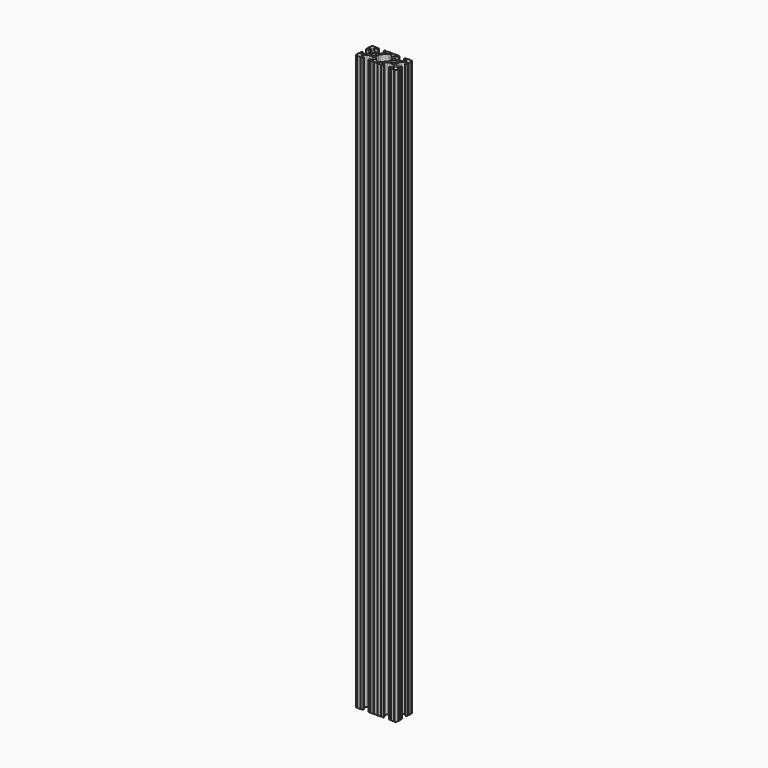
from build123d import *

# Parameters (mm, degrees)
SKETCH162_R   = 2.6035
EXTRUDE_DEPTH = 711.2


with BuildPart() as part:
    # Sketch162 → Extrude (new body)
    with BuildSketch(Plane.XY):
        with BuildLine():
            Line((8.41248, -10.4902), (6.283641, -10.4902))
            ThreePointArc((5.532577, -8.666072), (5.297292, -9.829633), (6.283641, -10.4902))
            Line((5.532577, -8.666072), (8.809985, -5.416263))
            ThreePointArc((11.045536, -4.4958), (9.836721, -4.73492), (8.809985, -5.416263))
            Line((11.045536, -4.4958), (14.354464, -4.4958))
            ThreePointArc((16.590015, -5.416263), (15.563279, -4.73492), (14.354464, -4.4958))
            Line((16.590015, -5.416263), (19.867423, -8.666072))
            ThreePointArc((19.116359, -10.4902), (20.102708, -9.829633), (19.867423, -8.666072))
            Line((19.116359, -10.4902), (16.98752, -10.4902))
            ThreePointArc((16.98752, -10.4902), (16.245751, -10.797451), (15.9385, -11.53922))
            Line((15.9385, -11.53922), (15.938501, -11.65105))
            ThreePointArc((15.938501, -11.65105), (16.245731, -12.39277), (16.98745, -12.7))
            Line((16.98745, -12.7), (18.017115, -12.7))
            ThreePointArc((19.033115, -12.7), (18.525115, -12.192), (18.017115, -12.7))
            Line((19.033115, -12.7), (22.2504, -12.7))
            ThreePointArc((23.2664, -12.699847), (22.758323, -12.192), (22.2504, -12.7))
            ThreePointArc((23.2664, -12.699847), (24.782523, -12.082523), (25.399847, -10.5664))
            ThreePointArc((25.4, -9.5504), (24.892, -10.058323), (25.399847, -10.5664))
            Line((25.4, -9.5504), (25.4, -6.333084))
            ThreePointArc((25.4, -5.317084), (24.892, -5.825084), (25.4, -6.333084))
            Line((25.4, -5.317084), (25.4, -4.23752))
            ThreePointArc((25.4, -4.23752), (25.107394, -3.531106), (24.40098, -3.2385))
            Line((24.40098, -3.2385), (24.239219, -3.2385))
            ThreePointArc((24.239219, -3.2385), (23.49745, -3.545751), (23.1902, -4.28752))
            Line((23.1902, -4.28752), (23.1902, -6.334741))
            ThreePointArc((21.434003, -7.066536), (22.556027, -7.286024), (23.1902, -6.334741))
            Line((21.434003, -7.066536), (18.147951, -3.808156))
            ThreePointArc((17.208502, -1.55362), (17.45276, -2.774838), (18.147951, -3.808156))
            Line((17.208502, -1.55362), (17.208502, 1.695179))
            ThreePointArc((18.140486, 3.94229), (17.450739, 2.911536), (17.208502, 1.695179))
            Line((18.140486, 3.94229), (21.43158, 7.227386))
            ThreePointArc((23.1902, 6.498002), (22.554449, 7.449941), (21.43158, 7.227386))
            Line((23.1902, 6.498002), (23.190199, 4.28752))
            ThreePointArc((23.190199, 4.28752), (23.49745, 3.545751), (24.23922, 3.2385))
            Line((24.23922, 3.2385), (24.350981, 3.2385))
            ThreePointArc((24.350981, 3.2385), (25.09275, 3.545751), (25.4, 4.28752))
            Line((25.4, 4.28752), (25.4, 5.317134))
            ThreePointArc((25.4, 6.333134), (24.892, 5.825134), (25.4, 5.317134))
            Line((25.4, 6.333134), (25.4, 9.5504))
            ThreePointArc((25.399847, 10.5664), (24.892, 10.058324), (25.4, 9.5504))
            ThreePointArc((25.399847, 10.5664), (24.782523, 12.082523), (23.2664, 12.699847))
            ThreePointArc((22.2504, 12.7), (22.758323, 12.192), (23.2664, 12.699847))
            Line((22.2504, 12.7), (19.03309, 12.7))
            ThreePointArc((18.01709, 12.7), (18.52509, 12.192), (19.03309, 12.7))
            Line((18.01709, 12.7), (16.98747, 12.7))
            ThreePointArc((16.98747, 12.7), (16.2457, 12.392749), (15.938449, 11.65098))
            Line((15.938449, 11.65098), (15.938449, 11.53922))
            ThreePointArc((15.938449, 11.53922), (16.2457, 10.797451), (16.987469, 10.4902))
            Line((16.987469, 10.4902), (19.116359, 10.4902))
            ThreePointArc((19.834124, 8.755125), (20.055198, 9.862578), (19.116359, 10.4902))
            Line((19.834124, 8.755125), (16.496607, 5.42369))
            ThreePointArc((14.253592, 4.4958), (15.467274, 4.736929), (16.496607, 5.42369))
            Line((14.253592, 4.4958), (11.146408, 4.4958))
            ThreePointArc((8.903392, 5.42369), (9.932726, 4.736929), (11.146408, 4.4958))
            Line((8.903392, 5.42369), (5.565875, 8.755125))
            ThreePointArc((6.283641, 10.4902), (5.344802, 9.862579), (5.565875, 8.755125))
            Line((6.283641, 10.4902), (8.412531, 10.4902))
            ThreePointArc((8.412531, 10.4902), (9.1543, 10.797451), (9.461551, 11.53922))
            Line((9.461551, 11.53922), (9.461551, 11.65098))
            ThreePointArc((9.461551, 11.65098), (9.1543, 12.392749), (8.412531, 12.7))
            Line((8.412531, 12.7), (7.382872, 12.7))
            ThreePointArc((6.366872, 12.7), (6.874872, 12.192), (7.382872, 12.7))
            Line((6.366872, 12.7), (3.149606, 12.7))
            ThreePointArc((2.133606, 12.7), (2.641606, 12.192), (3.149606, 12.7))
            Line((2.133606, 12.7), (-2.133606, 12.7))
            ThreePointArc((-3.149581, 12.7), (-2.641594, 12.192013), (-2.133606, 12.7))
            Line((-3.149581, 12.7), (-6.36691, 12.7))
            ThreePointArc((-7.38291, 12.7), (-6.87491, 12.192), (-6.36691, 12.7))
            Line((-7.38291, 12.7), (-8.412531, 12.7))
            ThreePointArc((-8.412531, 12.7), (-9.1543, 12.392749), (-9.461551, 11.65098))
            Line((-9.461551, 11.65098), (-9.461551, 11.53922))
            ThreePointArc((-9.461551, 11.53922), (-9.1543, 10.797451), (-8.412531, 10.4902))
            Line((-8.412531, 10.4902), (-6.289393, 10.4902))
            ThreePointArc((-5.480677, 8.535266), (-5.23159, 9.78305), (-6.289393, 10.4902))
            Line((-5.480677, 8.535266), (-8.597934, 5.42369))
            ThreePointArc((-10.840949, 4.4958), (-9.627267, 4.736929), (-8.597934, 5.42369))
            Line((-10.840949, 4.4958), (-14.102564, 4.4958))
            ThreePointArc((-16.187895, 5.276637), (-15.215928, 4.69741), (-14.102564, 4.4958))
            Line((-16.187895, 5.276637), (-19.868248, 8.482246))
            ThreePointArc((-19.116384, 10.4902), (-20.188436, 9.74688), (-19.868248, 8.482246))
            Line((-19.116384, 10.4902), (-16.987469, 10.4902))
            ThreePointArc((-16.987469, 10.4902), (-16.2457, 10.797451), (-15.938449, 11.53922))
            Line((-15.938449, 11.53922), (-15.938449, 11.65098))
            ThreePointArc((-15.938449, 11.65098), (-16.2457, 12.392749), (-16.987469, 12.7))
            Line((-16.987469, 12.7), (-18.017103, 12.7))
            ThreePointArc((-19.033103, 12.7), (-18.525103, 12.192), (-18.017103, 12.7))
            Line((-19.033103, 12.7), (-22.2504, 12.7))
            ThreePointArc((-23.2664, 12.699847), (-22.758323, 12.192), (-22.2504, 12.7))
            ThreePointArc((-23.2664, 12.699847), (-24.782523, 12.082523), (-25.399847, 10.5664))
            ThreePointArc((-25.4, 9.5504), (-24.892, 10.058323), (-25.399847, 10.5664))
            Line((-25.4, 9.5504), (-25.4, 6.333084))
            ThreePointArc((-25.4, 5.317084), (-24.892, 5.825084), (-25.4, 6.333084))
            Line((-25.4, 5.317084), (-25.4, 4.23752))
            ThreePointArc((-25.4, 4.23752), (-25.107394, 3.531106), (-24.40098, 3.2385))
            Line((-24.40098, 3.2385), (-24.18922, 3.2385))
            ThreePointArc((-24.18922, 3.2385), (-23.482806, 3.531106), (-23.1902, 4.23752))
            Line((-23.1902, 4.23752), (-23.1902, 6.155876))
            ThreePointArc((-21.583975, 6.886926), (-22.622327, 7.038259), (-23.1902, 6.155876))
            Line((-21.583975, 6.886926), (-18.298171, 4.024971))
            ThreePointArc((-17.208502, 1.630807), (-17.493731, 2.946045), (-18.298171, 4.024971))
            Line((-17.208502, 1.630807), (-17.208502, -1.630807))
            ThreePointArc((-18.109441, -3.846495), (-17.442348, -2.826734), (-17.208502, -1.630807))
            Line((-18.109441, -3.846495), (-21.526347, -7.35342))
            ThreePointArc((-23.1902, -6.676867), (-22.585896, -7.574939), (-21.526347, -7.35342))
            Line((-23.1902, -6.676867), (-23.1902, -4.23752))
            ThreePointArc((-23.1902, -4.23752), (-23.482806, -3.531106), (-24.18922, -3.2385))
            Line((-24.18922, -3.2385), (-24.400979, -3.2385))
            ThreePointArc((-24.400979, -3.2385), (-25.107394, -3.531106), (-25.4, -4.23752))
            Line((-25.4, -4.23752), (-25.4, -5.317084))
            ThreePointArc((-25.4, -6.333185), (-24.891949, -5.825134), (-25.4, -5.317084))
            Line((-25.4, -6.333185), (-25.4, -9.5504))
            ThreePointArc((-25.399847, -10.5664), (-24.892, -10.058323), (-25.4, -9.5504))
            ThreePointArc((-25.399847, -10.5664), (-24.782522, -12.082522), (-23.2664, -12.699847))
            ThreePointArc((-22.2504, -12.7), (-22.758323, -12.192), (-23.2664, -12.699847))
            Line((-22.2504, -12.7), (-19.033103, -12.7))
            ThreePointArc((-18.017103, -12.7), (-18.525103, -12.192), (-19.033103, -12.7))
            Line((-18.017103, -12.7), (-16.98745, -12.7))
            ThreePointArc((-16.98745, -12.7), (-16.24573, -12.39277), (-15.9385, -11.65105))
            Line((-15.9385, -11.65105), (-15.9385, -11.53922))
            ThreePointArc((-15.9385, -11.53922), (-16.245751, -10.797451), (-16.98752, -10.4902))
            Line((-16.98752, -10.4902), (-19.116384, -10.4902))
            ThreePointArc((-19.844087, -8.765172), (-20.052503, -9.869097), (-19.116384, -10.4902))
            Line((-19.844087, -8.765172), (-16.618993, -5.455112))
            ThreePointArc((-14.344933, -4.4958), (-15.578994, -4.745442), (-16.618993, -5.455112))
            Line((-14.344933, -4.4958), (-11.083318, -4.4958))
            ThreePointArc((-8.816955, -5.447239), (-9.854331, -4.743307), (-11.083318, -4.4958))
            Line((-8.816955, -5.447239), (-5.564154, -8.762653))
            ThreePointArc((-6.289393, -10.4902), (-5.352591, -9.867473), (-5.564154, -8.762653))
            Line((-6.289393, -10.4902), (-8.41248, -10.4902))
            ThreePointArc((-8.41248, -10.4902), (-9.154249, -10.797451), (-9.4615, -11.53922))
            Line((-9.4615, -11.53922), (-9.4615, -11.65105))
            ThreePointArc((-9.4615, -11.65105), (-9.154269, -12.39277), (-8.41255, -12.7))
            Line((-8.41255, -12.7), (-7.382885, -12.7))
            ThreePointArc((-6.366885, -12.7), (-6.874885, -12.192), (-7.382885, -12.7))
            Line((-6.366885, -12.7), (-3.149581, -12.7))
            ThreePointArc((-2.133581, -12.7), (-2.641581, -12.192), (-3.149581, -12.7))
            Line((-2.133581, -12.7), (2.133581, -12.7))
            ThreePointArc((3.149581, -12.7), (2.641581, -12.192), (2.133581, -12.7))
            Line((3.149581, -12.7), (6.366897, -12.7))
            ThreePointArc((7.382897, -12.7), (6.874897, -12.192), (6.366897, -12.7))
            Line((7.382897, -12.7), (8.41255, -12.7))
            ThreePointArc((8.41255, -12.7), (9.15427, -12.392769), (9.4615, -11.65105))
            Line((9.4615, -11.65105), (9.461501, -11.53922))
            ThreePointArc((9.461501, -11.53922), (9.154249, -10.797451), (8.41248, -10.4902))
        make_face()
        with Locations((12.7, 0)):
            Circle(SKETCH162_R, mode=Mode.SUBTRACT)
        with Locations((-12.7, 0)):
            Circle(SKETCH162_R, mode=Mode.SUBTRACT)
        with BuildLine():
            Line((7.259514, 3.869413), (1.545749, 9.572767))
            ThreePointArc((1.545749, 9.572767), (1.035199, 9.9134), (0.433213, 10.033))
            Line((0.433213, 10.033), (-0.433213, 10.033))
            ThreePointArc((-0.433213, 10.033), (-1.0352, 9.9134), (-1.545749, 9.572767))
            Line((-1.545749, 9.572767), (-7.259514, 3.869413))
            ThreePointArc((-7.259514, 3.869413), (-7.949261, 2.83866), (-8.191498, 1.622303))
            Line((-8.191498, 1.622303), (-8.191498, -1.622303))
            ThreePointArc((-8.191498, -1.622303), (-7.955573, -2.823328), (-7.282861, -3.845864))
            Line((-7.282861, -3.845864), (-1.675572, -9.561086))
            ThreePointArc((-1.675572, -9.561086), (-1.161034, -9.910236), (-0.551457, -10.033))
            Line((-0.551457, -10.033), (0.3952, -10.033))
            ThreePointArc((0.3952, -10.033), (0.994773, -9.914396), (1.504033, -9.57645))
            Line((1.504033, -9.57645), (7.252049, -3.87684))
            ThreePointArc((7.252049, -3.87684), (7.94724, -2.843521), (8.191498, -1.622303))
            Line((8.191498, -1.622303), (8.191499, 1.622303))
            ThreePointArc((8.191499, 1.622303), (7.949262, 2.83866), (7.259514, 3.869413))
        make_face(mode=Mode.SUBTRACT)
    extrude(amount=EXTRUDE_DEPTH)


solid = part.part
